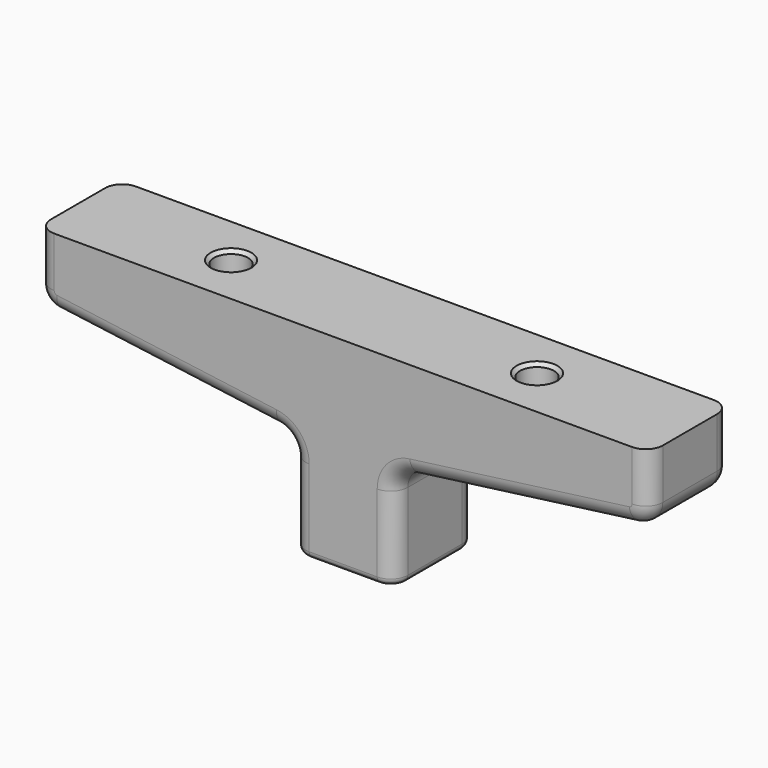
from build123d import *

# Parameters (mm, degrees)
PAD_DEPTH       = 15
SKETCH001_R     = 5
POCKET_DEPTH    = 21
SKETCH002_R     = 10
POCKET001_DEPTH = 40
FILLET_R        = 5
CHAMFER_SIZE    = 2
CHAMFER001_SIZE = 0.5
CHAMFER002_SIZE = 1
CHAMFER003_SIZE = 0.5
FILLET001_R     = 2


with BuildPart() as part:
    # Sketch → Pad (new body, symmetric)
    with BuildSketch(Plane.XZ):
        with BuildLine():
            Line((90, 0), (90, -14.746902))
            ThreePointArc((84.792982, -20.694269), (88.514305, -18.699249), (90, -14.746902))
            Line((84.792982, -20.694269), (20.207018, -29.305731))
            ThreePointArc((20.207018, -29.305731), (16.485695, -31.300751), (15, -35.253098))
            Line((15, -35.253098), (15, -60))
            Line((15, -60), (-15, -60))
            Line((-15, -60), (-15, -35.253098))
            ThreePointArc((-15, -35.253098), (-16.485695, -31.300751), (-20.207018, -29.305731))
            Line((-20.207018, -29.305731), (-84.792982, -20.694269))
            ThreePointArc((-90, -14.746902), (-88.514305, -18.699249), (-84.792982, -20.694269))
            Line((-90, -14.746902), (-90, 0))
            Line((-90, 0), (0, 0))
            Line((0, 0), (90, 0))
        make_face()
    extrude(amount=PAD_DEPTH, both=True)

    # Sketch001 (on Face14 of Pad) → Pocket (cut)
    with BuildSketch(Plane(origin=(0, 0, 0), x_dir=(-1, 0, 0), z_dir=(0, 0, 1))):
        with Locations((-45, 0)):
            Circle(SKETCH001_R)
        with Locations((45, 0)):
            Circle(SKETCH001_R)
    extrude(amount=-POCKET_DEPTH, mode=Mode.SUBTRACT)

    # Sketch002 (on Face14 of Pocket) → Pocket001 (cut)
    with BuildSketch(Plane(origin=(0, 0, -60), x_dir=(1, 0, 0), z_dir=(0, 0, -1))):
        Circle(SKETCH002_R)
    extrude(amount=-POCKET001_DEPTH, mode=Mode.SUBTRACT)

    # Fillet
    fillet_edges = [part.edges().sort_by_distance(p)[0] for p in [
        (90, -15, -7.373451),
        (-90, -15, -7.373451),
        (-90, 15, -7.373451),
        (90, 15, -7.373451),
    ]]
    fillet(fillet_edges, radius=FILLET_R)

    # Chamfer
    chamfer_edges = [part.edges().sort_by_distance(p)[0] for p in [
        (-10, 0, -60),
    ]]
    chamfer(chamfer_edges, length=CHAMFER_SIZE)

    # Chamfer001
    chamfer001_edges = [part.edges().sort_by_distance(p)[0] for p in [
        (-10, 0, -20),
    ]]
    chamfer(chamfer001_edges, length=CHAMFER001_SIZE)

    # Chamfer002
    chamfer002_edges = [part.edges().sort_by_distance(p)[0] for p in [
        (-40, 0, 0),
        (50, 0, 0),
    ]]
    chamfer(chamfer002_edges, length=CHAMFER002_SIZE)

    # Chamfer003
    chamfer003_edges = [part.edges().sort_by_distance(p)[0] for p in [
        (50, 0, -21),
        (-40, 0, -21),
    ]]
    chamfer(chamfer003_edges, length=CHAMFER003_SIZE)

    # Fillet001
    fillet001_edges = [part.edges().sort_by_distance(p)[0] for p in [
        (0, -15, -60),
    ]]
    fillet(fillet001_edges, radius=FILLET001_R)


solid = part.part
